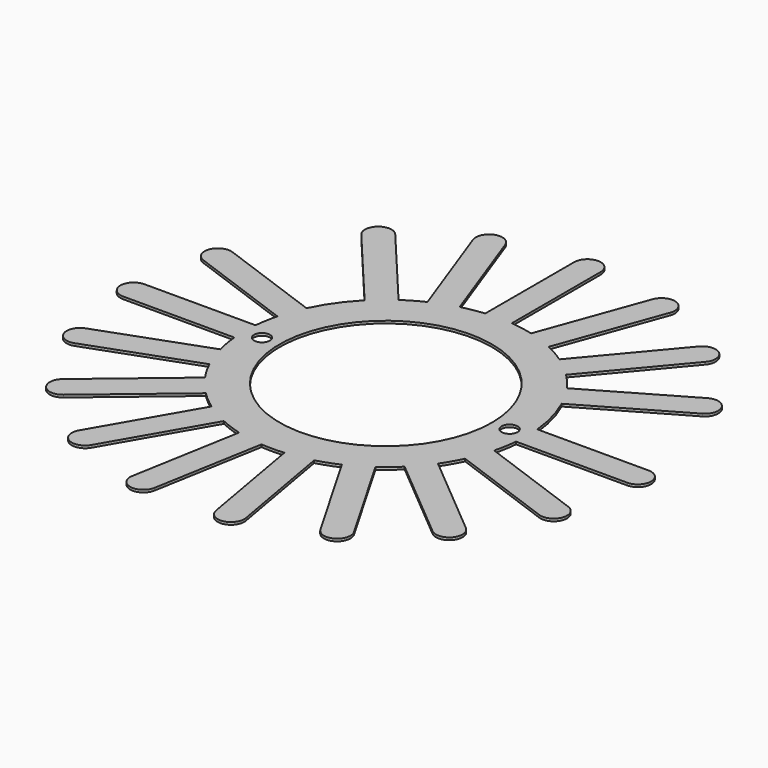
from build123d import *

# Parameters (mm, degrees)
F0_R     = 0.45
F0_R_2   = 6
F1_DEPTH = 0.14


with BuildPart() as f1:
    # F0 (on Top) → F1 (new body)
    with BuildSketch(Plane.XY):
        with BuildLine():
            ThreePointArc((7.964766, -0.75), (7.991187, -0.375414), (8, 0))
            ThreePointArc((8, 0), (7.991187, 0.375414), (7.964766, 0.75))
            ThreePointArc((7.964766, 0.75), (7.727407, 2.070552), (7.27269, 3.332864))
            ThreePointArc((7.27269, 3.332864), (6.928203, 4), (6.52269, 4.631902))
            ThreePointArc((6.52269, 4.631902), (6.128356, 5.142301), (5.694186, 5.619274))
            ThreePointArc((5.694186, 5.619274), (5.142301, 6.128356), (4.54512, 6.583456))
            ThreePointArc((4.54512, 6.583456), (4, 6.928203), (3.42888, 7.227917))
            ThreePointArc((3.42888, 7.227917), (2.736161, 7.517541), (2.019341, 7.740947))
            ThreePointArc((2.019341, 7.740947), (1.389185, 7.878462), (0.75, 7.964766))
            ThreePointArc((0.75, 7.964766), (0, 8), (-0.75, 7.964766))
            ThreePointArc((-0.75, 7.964766), (-1.389185, 7.878462), (-2.019341, 7.740947))
            ThreePointArc((-2.019341, 7.740947), (-2.736161, 7.517541), (-3.42888, 7.227917))
            ThreePointArc((-3.42888, 7.227917), (-4, 6.928203), (-4.54512, 6.583456))
            ThreePointArc((-4.54512, 6.583456), (-5.142301, 6.128356), (-5.694186, 5.619274))
            ThreePointArc((-5.694186, 5.619274), (-6.553216, 4.588611), (-7.227917, 3.42888))
            ThreePointArc((-7.227917, 3.42888), (-7.517541, 2.736161), (-7.740947, 2.019341))
            ThreePointArc((-7.740947, 2.019341), (-7.878462, 1.389185), (-7.964766, 0.75))
            ThreePointArc((-7.964766, 0.75), (-8, 0), (-7.964766, -0.75))
            ThreePointArc((-7.964766, -0.75), (-7.878462, -1.389185), (-7.740947, -2.019341))
            ThreePointArc((-7.740947, -2.019341), (-7.517541, -2.736161), (-7.227917, -3.42888))
            ThreePointArc((-7.227917, -3.42888), (-6.928203, -4), (-6.583456, -4.54512))
            ThreePointArc((-6.583456, -4.54512), (-6.128356, -5.142301), (-5.619274, -5.694186))
            ThreePointArc((-5.619274, -5.694186), (-5.142301, -6.128356), (-4.631902, -6.52269))
            ThreePointArc((-4.631902, -6.52269), (-4, -6.928203), (-3.332864, -7.27269))
            ThreePointArc((-3.332864, -7.27269), (-2.736161, -7.517541), (-2.121673, -7.713527))
            ThreePointArc((-2.121673, -7.713527), (-1.389185, -7.878462), (-0.644461, -7.974))
            ThreePointArc((-0.644461, -7.974), (0, -8), (0.644461, -7.974))
            ThreePointArc((0.644461, -7.974), (1.389185, -7.878462), (2.121673, -7.713527))
            ThreePointArc((2.121673, -7.713527), (2.736161, -7.517541), (3.332864, -7.27269))
            ThreePointArc((3.332864, -7.27269), (4, -6.928203), (4.631902, -6.52269))
            ThreePointArc((4.631902, -6.52269), (5.142301, -6.128356), (5.619274, -5.694186))
            ThreePointArc((5.619274, -5.694186), (6.128356, -5.142301), (6.583456, -4.54512))
            ThreePointArc((6.583456, -4.54512), (6.928203, -4), (7.227917, -3.42888))
            ThreePointArc((7.227917, -3.42888), (7.517541, -2.736161), (7.740947, -2.019341))
            ThreePointArc((7.740947, -2.019341), (7.878462, -1.389185), (7.964766, -0.75))
        make_face()
        with Locations((-7, 0)):
            Circle(F0_R, mode=Mode.SUBTRACT)
        Circle(F0_R_2, mode=Mode.SUBTRACT)
        with Locations((7, 0)):
            Circle(F0_R, mode=Mode.SUBTRACT)
        with BuildLine():
            ThreePointArc((7.964766, 0.75), (7.991187, 0.375414), (8, 0))
            ThreePointArc((8, 0), (7.991187, -0.375414), (7.964766, -0.75))
            Line((7.964766, -0.75), (14.25, -0.75))
            ThreePointArc((14.25, -0.75), (15, 0), (14.25, 0.75))
            Line((14.25, 0.75), (7.964766, 0.75))
        make_face()
        with BuildLine():
            ThreePointArc((6.52269, 4.631902), (6.928203, 4), (7.27269, 3.332864))
            Line((7.27269, 3.332864), (12.715862, 6.475481))
            ThreePointArc((12.715862, 6.475481), (12.990381, 7.5), (11.965862, 7.774519))
            Line((11.965862, 7.774519), (6.52269, 4.631902))
        make_face()
        with BuildLine():
            Line((13.647135, -4.169018), (7.740947, -2.019341))
            ThreePointArc((7.740947, -2.019341), (7.517541, -2.736161), (7.227917, -3.42888))
            Line((7.227917, -3.42888), (13.134105, -5.578557))
            ThreePointArc((13.134105, -5.578557), (14.095389, -5.130302), (13.647135, -4.169018))
        make_face()
        with BuildLine():
            ThreePointArc((4.54512, 6.583456), (5.142301, 6.128356), (5.694186, 5.619274))
            Line((5.694186, 5.619274), (9.734257, 10.434043))
            ThreePointArc((9.734257, 10.434043), (9.641814, 11.490667), (8.58519, 11.398224))
            Line((8.58519, 11.398224), (4.54512, 6.583456))
        make_face()
        with BuildLine():
            Line((11.398224, -8.58519), (6.583456, -4.54512))
            ThreePointArc((6.583456, -4.54512), (6.128356, -5.142301), (5.619274, -5.694186))
            Line((5.619274, -5.694186), (10.434043, -9.734257))
            ThreePointArc((10.434043, -9.734257), (11.490667, -9.641814), (11.398224, -8.58519))
        make_face()
        with BuildLine():
            ThreePointArc((2.019341, 7.740947), (2.736161, 7.517541), (3.42888, 7.227917))
            Line((3.42888, 7.227917), (5.578557, 13.134105))
            ThreePointArc((5.578557, 13.134105), (5.130302, 14.095389), (4.169018, 13.647135))
            Line((4.169018, 13.647135), (2.019341, 7.740947))
        make_face()
        with BuildLine():
            Line((7.774519, -11.965862), (4.631902, -6.52269))
            ThreePointArc((4.631902, -6.52269), (4, -6.928203), (3.332864, -7.27269))
            Line((3.332864, -7.27269), (6.475481, -12.715862))
            ThreePointArc((6.475481, -12.715862), (7.5, -12.990381), (7.774519, -11.965862))
        make_face()
        with BuildLine():
            ThreePointArc((-0.75, 7.964766), (0, 8), (0.75, 7.964766))
            Line((0.75, 7.964766), (0.75, 14.25))
            ThreePointArc((0.75, 14.25), (0, 15), (-0.75, 14.25))
            Line((-0.75, 14.25), (-0.75, 7.964766))
        make_face()
        with BuildLine():
            Line((3.213092, -13.903274), (2.121673, -7.713527))
            ThreePointArc((2.121673, -7.713527), (1.389185, -7.878462), (0.644461, -7.974))
            Line((0.644461, -7.974), (1.735881, -14.163747))
            ThreePointArc((1.735881, -14.163747), (2.604723, -14.772116), (3.213092, -13.903274))
        make_face()
        with BuildLine():
            ThreePointArc((-3.42888, 7.227917), (-2.736161, 7.517541), (-2.019341, 7.740947))
            Line((-2.019341, 7.740947), (-4.169018, 13.647135))
            ThreePointArc((-4.169018, 13.647135), (-5.130302, 14.095389), (-5.578557, 13.134105))
            Line((-5.578557, 13.134105), (-3.42888, 7.227917))
        make_face()
        with BuildLine():
            Line((-1.735881, -14.163747), (-0.644461, -7.974))
            ThreePointArc((-0.644461, -7.974), (-1.389185, -7.878462), (-2.121673, -7.713527))
            Line((-2.121673, -7.713527), (-3.213092, -13.903274))
            ThreePointArc((-3.213092, -13.903274), (-2.604723, -14.772116), (-1.735881, -14.163747))
        make_face()
        with BuildLine():
            ThreePointArc((-5.694186, 5.619274), (-5.142301, 6.128356), (-4.54512, 6.583456))
            Line((-4.54512, 6.583456), (-8.58519, 11.398224))
            ThreePointArc((-8.58519, 11.398224), (-9.641814, 11.490667), (-9.734257, 10.434043))
            Line((-9.734257, 10.434043), (-5.694186, 5.619274))
        make_face()
        with BuildLine():
            Line((-6.475481, -12.715862), (-3.332864, -7.27269))
            ThreePointArc((-3.332864, -7.27269), (-4, -6.928203), (-4.631902, -6.52269))
            Line((-4.631902, -6.52269), (-7.774519, -11.965862))
            ThreePointArc((-7.774519, -11.965862), (-7.5, -12.990381), (-6.475481, -12.715862))
        make_face()
        with BuildLine():
            ThreePointArc((-7.740947, 2.019341), (-7.517541, 2.736161), (-7.227917, 3.42888))
            Line((-7.227917, 3.42888), (-13.134105, 5.578557))
            ThreePointArc((-13.134105, 5.578557), (-14.095389, 5.130302), (-13.647135, 4.169018))
            Line((-13.647135, 4.169018), (-7.740947, 2.019341))
        make_face()
        with BuildLine():
            Line((-10.434043, -9.734257), (-5.619274, -5.694186))
            ThreePointArc((-5.619274, -5.694186), (-6.128356, -5.142301), (-6.583456, -4.54512))
            Line((-6.583456, -4.54512), (-11.398224, -8.58519))
            ThreePointArc((-11.398224, -8.58519), (-11.490667, -9.641814), (-10.434043, -9.734257))
        make_face()
        with BuildLine():
            ThreePointArc((-7.964766, -0.75), (-8, 0), (-7.964766, 0.75))
            Line((-7.964766, 0.75), (-14.25, 0.75))
            ThreePointArc((-14.25, 0.75), (-15, 0), (-14.25, -0.75))
            Line((-14.25, -0.75), (-7.964766, -0.75))
        make_face()
        with BuildLine():
            Line((-13.134105, -5.578557), (-7.227917, -3.42888))
            ThreePointArc((-7.227917, -3.42888), (-7.517541, -2.736161), (-7.740947, -2.019341))
            Line((-7.740947, -2.019341), (-13.647135, -4.169018))
            ThreePointArc((-13.647135, -4.169018), (-14.095389, -5.130302), (-13.134105, -5.578557))
        make_face()
    extrude(amount=F1_DEPTH)


solid = f1.part
